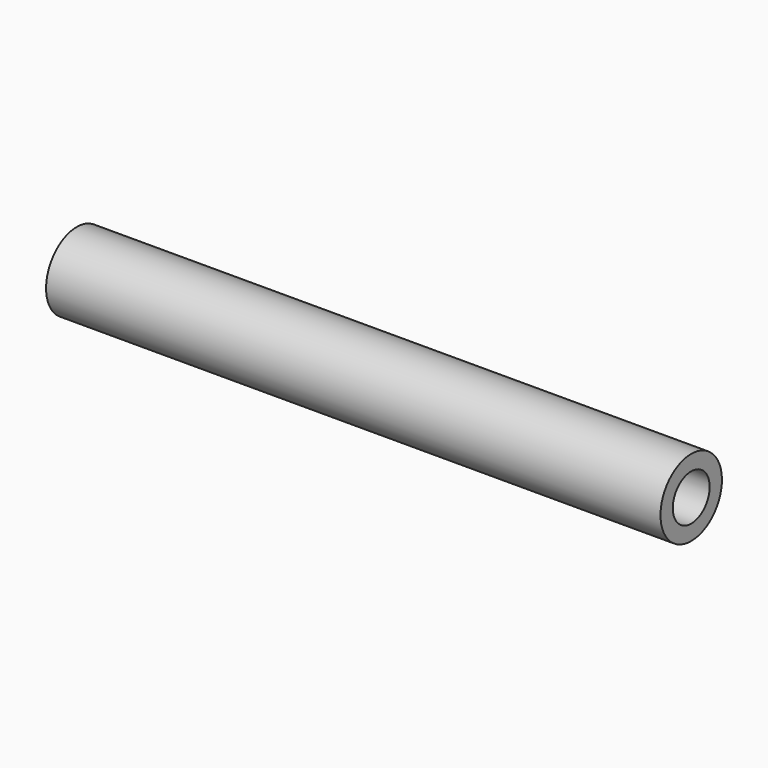
from build123d import *

# Parameters (mm, degrees)
CYLINDER001_R           = 1.5
CYLINDER001_DEPTH       = 44
CYLINDER001_PITCH_ANGLE = 90
CYLINDER_R              = 2.5
CYLINDER_DEPTH          = 40
CYLINDER_PITCH_ANGLE    = 90


with BuildPart() as cilindro001:
    # Cylinder001 → Cylinder001 (new body)
    with BuildSketch(Plane.XY):
        Circle(CYLINDER001_R)
    extrude(amount=CYLINDER001_DEPTH)


with BuildPart() as cilindro001_1:
    # Cylinder001 pitch: moved
    add(cilindro001.part.rotate(Axis((0, 0, 0), (0, 1, 0)), CYLINDER001_PITCH_ANGLE))


with BuildPart() as cilindro001_2:
    # Cylinder001 placement: moved
    add(cilindro001_1.part.moved(Location((-2, 0, 0))))


with BuildPart() as soporte1:
    # Cylinder → Cylinder (new body)
    with BuildSketch(Plane.XY):
        Circle(CYLINDER_R)
    extrude(amount=CYLINDER_DEPTH)


with BuildPart() as soporte1_1:
    # Cylinder pitch: moved
    add(soporte1.part.rotate(Axis((0, 0, 0), (0, 1, 0)), CYLINDER_PITCH_ANGLE))


with BuildPart() as soporte1_2:
    # Cylinder placement: moved
    add(soporte1_1.part)

    # Cut: cut Cilindro001
    add(cilindro001_2.part, mode=Mode.SUBTRACT)


with BuildPart() as soporte1_3:
    # Cut placement: moved
    add(soporte1_2.part.moved(Location((125, 65, 143.5))))


solid = soporte1_3.part
